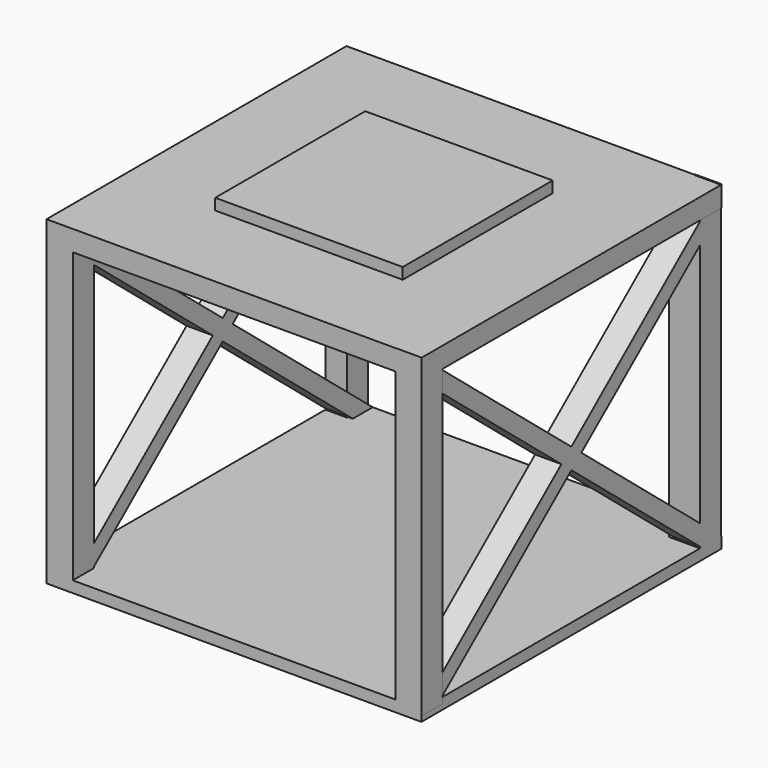
from build123d import *

# Parameters (mm, degrees)
F0_W      = 100
F0_H      = 100
F1_DEPTH  = 3
F3_DEPTH  = 7
F5_DEPTH  = 7
F7_DEPTH  = 7
F9_DEPTH  = 7
F10_W     = 100.0225
F10_H     = 5.475754
F11_DEPTH = 100
F12_W     = 50.0005
F12_H     = 50
F13_DEPTH = 3
F14_W     = 5.79754
F14_H     = 7
F14_W_2   = 8.194392
F14_W_3   = 7
F15_DEPTH = 84.1


with BuildPart() as f1:
    # F0 (on Top) → F1 (new body)
    with BuildSketch(Plane.XY):
        with Locations((5.625, -3.024291)):
            Rectangle(F0_W, F0_H)
    extrude(amount=F1_DEPTH)

    # F2 (on face) → F3 (join)
    with BuildSketch(Plane(origin=(-44.375, 0, 0), x_dir=(0, -1, 0), z_dir=(-1, 0, 0))):
        Polygon((-46.975709, 0), (-43.975709, 0), (53.024291, 80.049396), (53.024291, 85.52515), (-46.975709, 3), align=None)
    extrude(amount=-F3_DEPTH)

    # F4 (on face) → F5 (join)
    with BuildSketch(Plane(origin=(-44.375, 0, 0), x_dir=(0, -1, 0), z_dir=(-1, 0, 0))):
        Polygon((-46.975709, 80.049396), (50.024291, 0), (53.024291, 0), (53.024291, 3), (-46.975709, 85.52515), align=None)
    extrude(amount=-F5_DEPTH)

    # F6 (on face) → F7 (join)
    with BuildSketch(Plane.YZ.offset(55.625)):
        Polygon((-53.024291, 0), (-50.024291, 0), (46.975709, 80.049396), (46.975709, 85.644148), (-53.024291, 3), align=None)
    extrude(amount=-F7_DEPTH)

    # F8 (on face) → F9 (join)
    with BuildSketch(Plane.YZ.offset(55.625)):
        Polygon((-53.024291, 80.049396), (43.975709, 0), (46.975709, 0), (46.975709, 3), (-53.024291, 85.554466), align=None)
    extrude(amount=-F9_DEPTH)

    # F10 (on face) → F11 (join)
    with BuildSketch(Plane.XZ.offset(53.024291)):
        with Locations((5.63625, 82.787273)):
            Rectangle(F10_W, F10_H)
    extrude(amount=-F11_DEPTH)

    # F12 (on face) → F13 (join)
    with BuildSketch(Plane.XY.offset(85.52515)):
        with Locations((5.62525, -3.024291)):
            Rectangle(F12_W, F12_H)
    extrude(amount=F13_DEPTH)

    # F14 (on face) → F15 (join)
    with BuildSketch(Plane.XY.offset(85.52515)):
        with Locations((-41.47623, 43.475709)):
            Rectangle(F14_W, F14_H)
        with Locations((51.527804, 43.33172)):
            Rectangle(F14_W_2, F14_H)
        with Locations((52.1475, -49.524291)):
            Rectangle(F14_W_3, F14_H)
        with Locations((-40.875, -49.524291)):
            Rectangle(F14_W_3, F14_H)
    extrude(amount=-F15_DEPTH)


solid = f1.part
